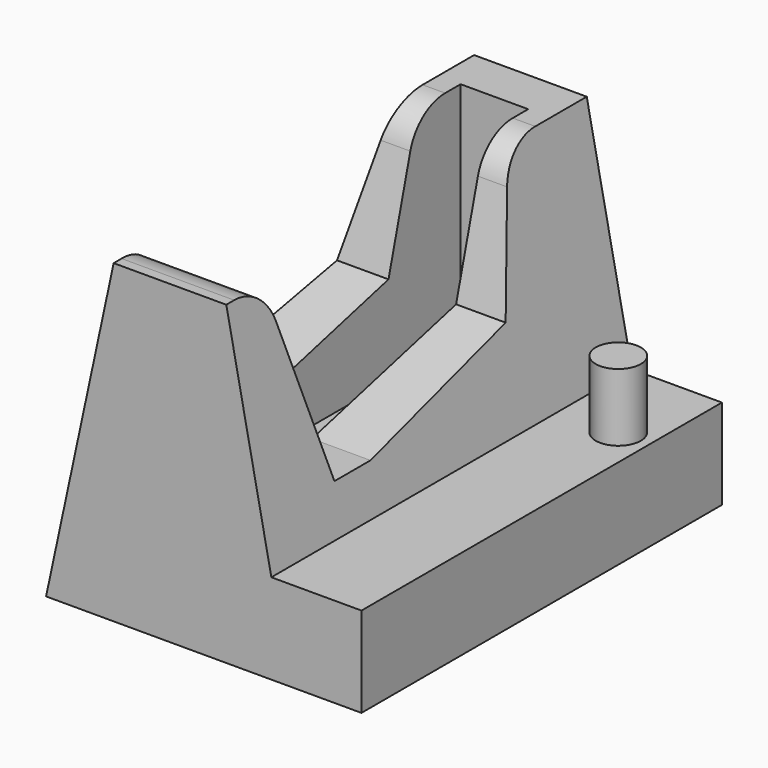
from build123d import *

# Parameters (mm, degrees)
F1_DEPTH = 100
F3_DEPTH = 70.001
F4_R     = 10
F5_W     = 15
F5_H     = 60
F6_DEPTH = 50
F7_R     = 5
F8_DEPTH = 15


with BuildPart() as f1:
    # F0 (on Front) → F1 (new body)
    with BuildSketch(Plane.XZ):
        Polygon((15, 70), (0, 0), (70, 0), (70, 20), (50, 20), (40, 70), align=None)
    extrude(amount=-F1_DEPTH)

    # F2 (on face) → F3 (cut, through all)
    with BuildSketch(Plane.YZ.offset(70)):
        Polygon((78.038476, 70), (10, 70), (20, 30), (30, 30), (70, 40), align=None)
    extrude(amount=-F3_DEPTH, mode=Mode.SUBTRACT)

    # F4
    f4_edges = [f1.edges().sort_by_distance(p)[0] for p in [
        (27.5, 10, 70),
        (27.5, 78.038476, 70),
    ]]
    fillet(f4_edges, radius=F4_R)

    # F5 (on face) → F6 (cut)
    with BuildSketch(Plane.XY.offset(70)):
        with Locations((27.5, 60)):
            Rectangle(F5_W, F5_H)
    extrude(amount=-F6_DEPTH, mode=Mode.SUBTRACT)

    # F7 (on face) → F8 (join)
    with BuildSketch(Plane.XY.offset(20)):
        with Locations((63, 80)):
            Circle(F7_R)
    extrude(amount=F8_DEPTH)


solid = f1.part
